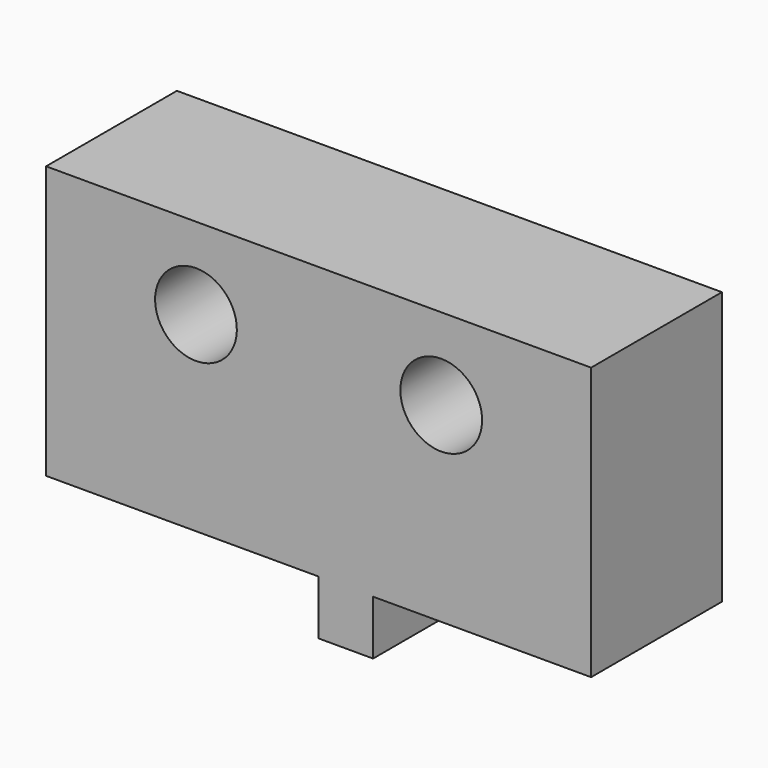
from build123d import *

# Parameters (mm, degrees)
CYLINDER033_R           = 1.5
CYLINDER033_DEPTH       = 10
ARRAY001016_Y_COUNT     = 2
ARRAY001016_Y_PITCH     = 9
BOX016_W                = 6
BOX016_H                = 20
BOX016_DEPTH            = 10
BOX017_W                = 6
BOX017_H                = 2
BOX017_DEPTH            = 2
BODY002_ROLL_ANGLE      = 180
BODY002_PLACEMENT_ANGLE = -90


with BuildPart() as end_stop_hole_array:
    # Cylinder033 → Cylinder033 (new body)
    with BuildSketch(Plane(origin=(-2, 5.5, 3), x_dir=(0, 0, -1), z_dir=(1, 0, 0))):
        Circle(CYLINDER033_R)
    extrude(amount=CYLINDER033_DEPTH)

    # Array001016 Y: end stop hole array ×2


with BuildPart() as end_stop_hole_array_1:
    add(end_stop_hole_array.part)
    with Locations(*[(0, i * ARRAY001016_Y_PITCH, 0) for i in range(1, ARRAY001016_Y_COUNT)]):
        add(end_stop_hole_array.part)


with BuildPart() as end_stop_body_cube:
    # Box016 → Box016 (new body)
    with BuildSketch(Plane.XY):
        with Locations((3, 10)):
            Rectangle(BOX016_W, BOX016_H)
    extrude(amount=BOX016_DEPTH)


with BuildPart() as end_stop_clone001:
    # Box017 → Box017 (new body)
    with BuildSketch(Plane(origin=(0, 8, 10), x_dir=(1, 0, 0), z_dir=(0, 0, 1))):
        with Locations((3, 1)):
            Rectangle(BOX017_W, BOX017_H)
    extrude(amount=BOX017_DEPTH)

    # Fusion013: union end stop body cube
    add(end_stop_body_cube.part)

    # Cut013: cut end stop hole array
    add(end_stop_hole_array_1.part, mode=Mode.SUBTRACT)


with BuildPart() as end_stop_clone001_1:
    # Body002 roll: moved
    add(end_stop_clone001.part.rotate(Axis((0, 0, 0), (1, 0, 0)), BODY002_ROLL_ANGLE))


with BuildPart() as end_stop_clone001_2:
    # Body002 placement: moved
    add(end_stop_clone001_1.part.moved(Location((111, 86.2588, 10.0341))).rotate(Axis((111, 86.2588, 10.0341), (0, 0, 1)), BODY002_PLACEMENT_ANGLE))


solid = end_stop_clone001_2.part
